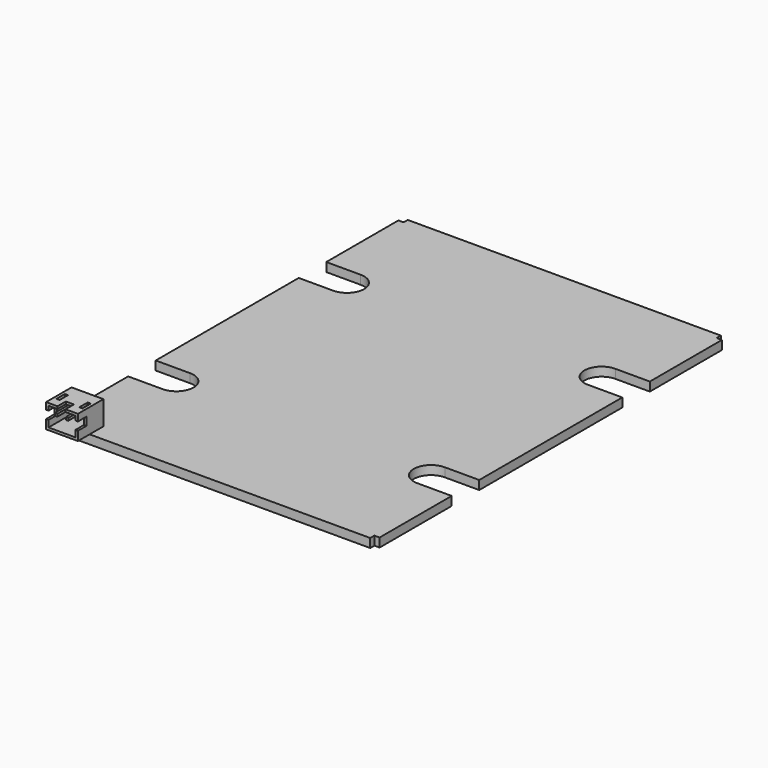
from build123d import *

# Parameters (mm, degrees)
PAD_DEPTH       = 1.7
SKETCH008_W     = 6.1
SKETCH008_H     = 6.1
PAD003_DEPTH    = 4.6
SKETCH014_W     = 5.16
SKETCH014_H     = 3.66
SKETCH014_W_2   = 0.48
SKETCH014_H_2   = 0.48
POCKET003_DEPTH = 5.44
SKETCH015_W     = 0.47
SKETCH015_H     = 1.56
SKETCH015_W_2   = 1.56
SKETCH015_H_2   = 0.47
POCKET004_DEPTH = 2
SKETCH016_W     = 0.6
SKETCH016_H     = 2.02
POCKET005_DEPTH = 1


with BuildPart() as part:
    # Sketch → Pad (new body)
    with BuildSketch(Plane.XY):
        with BuildLine():
            Line((0, 0), (30, 0))
            Line((30, 0), (30, 1))
            Line((30, 1), (31, 1))
            Line((31, 1), (31, 18.27))
            Line((31, 18.27), (24.4, 18.27))
            ThreePointArc((24.4, 24.87), (21.1, 21.57), (24.4, 18.27))
            Line((24.4, 24.87), (31, 24.87))
            Line((31, 24.87), (31, 59.13))
            Line((31, 59.13), (24.4, 59.13))
            ThreePointArc((24.4, 65.73), (21.1, 62.43), (24.4, 59.13))
            Line((24.4, 65.73), (31, 65.73))
            Line((31, 65.73), (31, 83))
            Line((30, 83), (31, 83))
            Line((30, 84), (30, 83))
            Line((30, 84), (0, 84))
            Line((0, 84), (-30, 84))
            Line((-30, 84), (-30, 83))
            Line((-30, 83), (-31, 83))
            Line((-31, 83), (-31, 65.73))
            Line((-31, 65.73), (-24.4, 65.73))
            ThreePointArc((-24.4, 59.13), (-21.1, 62.43), (-24.4, 65.73))
            Line((-24.4, 59.13), (-31, 59.13))
            Line((-31, 59.13), (-31, 24.87))
            Line((-31, 24.87), (-24.4, 24.87))
            ThreePointArc((-24.4, 18.27), (-21.1, 21.57), (-24.4, 24.87))
            Line((-24.4, 18.27), (-31, 18.27))
            Line((-31, 18.27), (-31, 1))
            Line((-31, 1), (-30, 1))
            Line((-30, 1), (-30, 0))
            Line((-30, 0), (0, 0))
        make_face()
    extrude(amount=PAD_DEPTH)

    # Sketch008 → Pad003 (new body)
    with BuildSketch(Plane.XY.offset(1.7)):
        with Locations((-26.82, 0.25)):
            Rectangle(SKETCH008_W, SKETCH008_H)
    extrude(amount=PAD003_DEPTH)

    # Sketch014 → Pocket003 (cut)
    with BuildSketch(Plane.XZ.offset(2.8)):
        with Locations((-26.82, 4)):
            Rectangle(SKETCH014_W, SKETCH014_H)
        with Locations((-27.96, 4.76)):
            Rectangle(SKETCH014_W_2, SKETCH014_H_2, mode=Mode.SUBTRACT)
        with Locations((-25.86, 4.76)):
            Rectangle(SKETCH014_W_2, SKETCH014_H_2, mode=Mode.SUBTRACT)
    extrude(amount=-POCKET003_DEPTH, mode=Mode.SUBTRACT)

    # Sketch015 → Pocket004 (cut)
    with BuildSketch(Plane.XZ.offset(2.8)):
        with Locations((-29.635, 4.22)):
            Rectangle(SKETCH015_W, SKETCH015_H)
        with Locations((-24.005, 4.22)):
            Rectangle(SKETCH015_W, SKETCH015_H)
        with Locations((-26.91, 6.065)):
            Rectangle(SKETCH015_W_2, SKETCH015_H_2)
    extrude(amount=-POCKET004_DEPTH, mode=Mode.SUBTRACT)

    # Sketch016 → Pocket005 (cut)
    with BuildSketch(Plane.XY.offset(6.3)):
        with Locations((-29.01, -0.01)):
            Rectangle(SKETCH016_W, SKETCH016_H)
        with Locations((-24.63, -0.01)):
            Rectangle(SKETCH016_W, SKETCH016_H)
    extrude(amount=-POCKET005_DEPTH, mode=Mode.SUBTRACT)


solid = part.part
